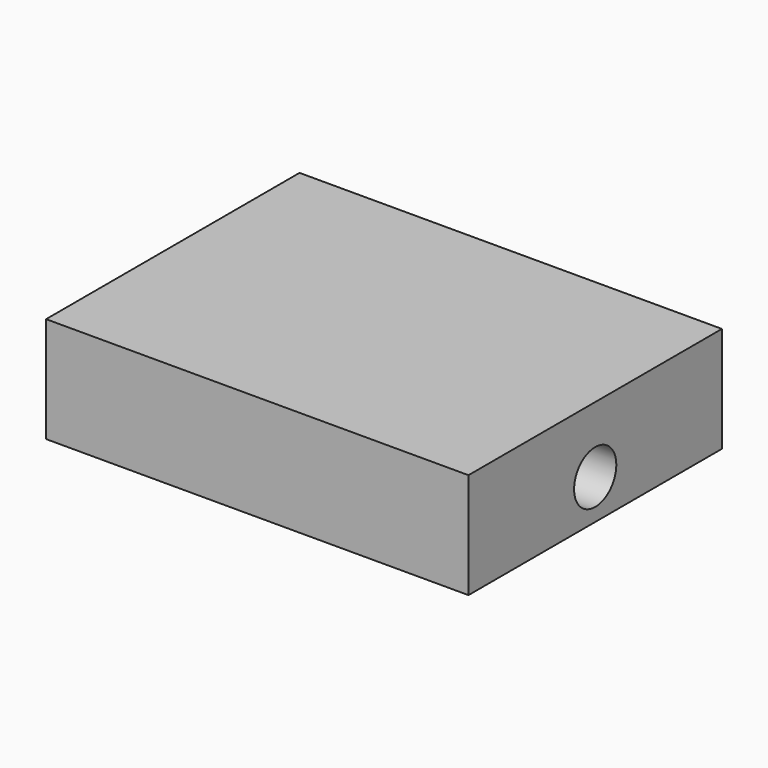
from build123d import *

# Parameters (mm, degrees)
F0_W     = 101.6
F0_H     = 76.2
F1_DEPTH = 25.4
F2_R     = 6.35
F3_DEPTH = 101.6
F4_R     = 1.8288
F5_DEPTH = 6.35


with BuildPart() as f1:
    # F0 (on Top) → F1 (new body)
    with BuildSketch(Plane.XY):
        Rectangle(F0_W, F0_H)
    extrude(amount=F1_DEPTH)

    # F2 (on face) → F3 (cut)
    with BuildSketch(Plane.YZ.offset(50.8)):
        with Locations((0, 9.525)):
            Circle(F2_R)
    extrude(amount=-F3_DEPTH, mode=Mode.SUBTRACT)

    # F4 (on face) → F5 (cut)
    with BuildSketch(Plane(origin=(0, 0, 0), x_dir=(1, 0, 0), z_dir=(0, 0, -1))):
        with Locations((-44.45, 31.75)):
            Circle(F4_R)
        with Locations((-44.45, -31.75)):
            Circle(F4_R)
        with Locations((44.45, -31.75)):
            Circle(F4_R)
        with Locations((44.45, 31.75)):
            Circle(F4_R)
    extrude(amount=-F5_DEPTH, mode=Mode.SUBTRACT)


solid = f1.part
